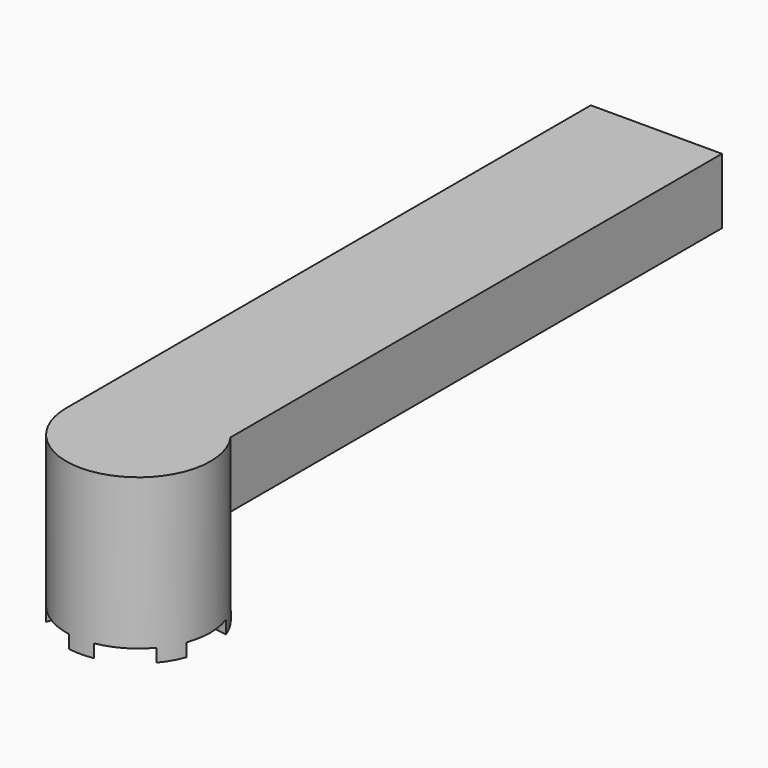
from build123d import *

# Parameters (mm, degrees)
F1_DEPTH = 20
F2_START = 15
F2_DEPTH = 10
F4_DEPTH = 2.000000095


with BuildPart() as f1:
    # F0 (on Top) → F1 (new body)
    with BuildSketch(Plane.XY):
        with BuildLine():
            Line((9, 0), (-11, 0))
            ThreePointArc((-11, 0), (0, -11), (11, 0))
            ThreePointArc((11, 0), (10.4880884817, 3.3166247904), (9, 6.3245553203))
            Line((9, 6.3245553203), (9, 0))
        make_face()
        with BuildLine():
            ThreePointArc((9, 6.3245553203), (-3.3166247904, 10.4880884817), (-11, 0))
            Line((-11, 0), (9, 0))
            Line((9, 0), (9, 6.3245553203))
        make_face()
    extrude(amount=F1_DEPTH)

    # F0 (on Top) → F2 (join)
    with BuildSketch(Plane.XY.offset(F2_START)):
        with BuildLine():
            Line((9, 0), (-11, 0))
            ThreePointArc((-11, 0), (0, -11), (11, 0))
            ThreePointArc((11, 0), (10.4880884817, 3.3166247904), (9, 6.3245553203))
            Line((9, 6.3245553203), (9, 0))
        make_face()
        with BuildLine():
            Line((-11, 100), (-11, 0))
            ThreePointArc((-11, 0), (-3.3166247904, 10.4880884817), (9, 6.3245553203))
            Line((9, 6.3245553203), (9, 100))
            Line((9, 100), (-11, 100))
        make_face()
        with BuildLine():
            ThreePointArc((9, 6.3245553203), (-3.3166247904, 10.4880884817), (-11, 0))
            Line((-11, 0), (9, 0))
            Line((9, 0), (9, 6.3245553203))
        make_face()
    extrude(amount=F2_DEPTH)

    # F3 (on Top) → F4 (cut)
    with BuildSketch(Plane.XY):
        with BuildLine():
            Line((9.0059984515, -8.6684480671), (7.3840666789, -4.2631928848))
            Line((7.3840666789, -4.2631928848), (12.0100954632, -3.4651994118))
            ThreePointArc((12.0100954632, -3.4651994118), (12.3769178977, -1.7498295216), (12.5, 0))
            ThreePointArc((12.5, 0), (12.3769178977, 1.7498295216), (12.0100954632, 3.4651994118))
            Line((12.0100954632, 3.4651994118), (7.3840666789, 4.2631928848))
            Line((7.3840666789, 4.2631928848), (9.0059984515, 8.6684480671))
            ThreePointArc((9.0059984515, 8.6684480671), (6.25, 10.8253175473), (3.0040970118, 12.133647479))
            Line((3.0040970118, 12.133647479), (0, 8.5263857696))
            Line((0, 8.5263857696), (-3.0040970118, 12.133647479))
            ThreePointArc((-3.0040970118, 12.133647479), (-6.25, 10.8253175473), (-9.0059984515, 8.6684480671))
            Line((-9.0059984515, 8.6684480671), (-7.3840666789, 4.2631928848))
            Line((-7.3840666789, 4.2631928848), (-12.0100954632, 3.4651994118))
            ThreePointArc((-12.0100954632, 3.4651994118), (-12.5, 0), (-12.0100954632, -3.4651994118))
            Line((-12.0100954632, -3.4651994118), (-7.3840666789, -4.2631928848))
            Line((-7.3840666789, -4.2631928848), (-9.0059984515, -8.6684480671))
            ThreePointArc((-9.0059984515, -8.6684480671), (-6.25, -10.8253175473), (-3.0040970118, -12.133647479))
            Line((-3.0040970118, -12.133647479), (0, -8.5263857696))
            Line((0, -8.5263857696), (3.0040970118, -12.133647479))
            ThreePointArc((3.0040970118, -12.133647479), (6.25, -10.8253175473), (9.0059984515, -8.6684480671))
        make_face()
    extrude(amount=F4_DEPTH, mode=Mode.SUBTRACT)


solid = f1.part
